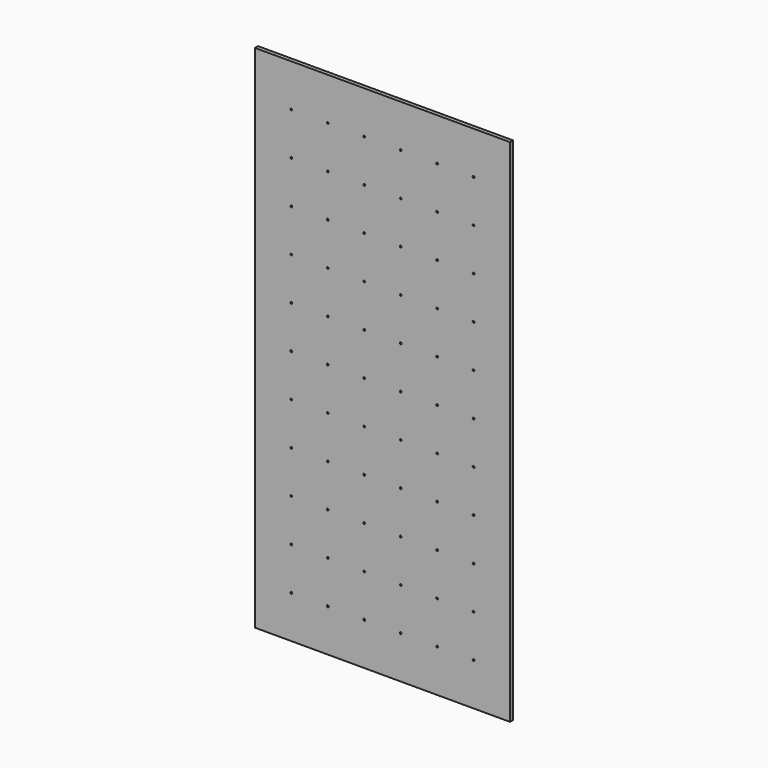
from build123d import *

# Parameters (mm, degrees)
F0_W     = 1200
F0_H     = 2400
F0_R     = 4.25
F0_R_2   = 4.333588
F0_R_3   = 4.203204
F0_R_4   = 4.674275
F0_R_5   = 4.428426
F0_R_6   = 4.332666
F0_R_7   = 4.28646
F0_R_8   = 4.261031
F0_R_9   = 4.262778
F0_R_10  = 4.353351
F0_R_11  = 4.090267
F0_R_12  = 4.288964
F0_R_13  = 4.317191
F0_R_14  = 4.232924
F0_R_15  = 4.198273
F1_DEPTH = 18


with BuildPart() as f1:
    # F0 (on Front) → F1 (new body)
    with BuildSketch(Plane.XZ):
        with Locations((0, 370.021296)):
            Rectangle(F0_W, F0_H)
        with Locations((-428.6, -629.978704)):
            Circle(F0_R, mode=Mode.SUBTRACT)
        with Locations((-428.6, -429.978704)):
            Circle(F0_R_2, mode=Mode.SUBTRACT)
        with Locations((-428.6, -229.978704)):
            Circle(F0_R_3, mode=Mode.SUBTRACT)
        with Locations((-257.2, -629.978704)):
            Circle(F0_R_4, mode=Mode.SUBTRACT)
        with Locations((-85.8, -629.978704)):
            Circle(F0_R_5, mode=Mode.SUBTRACT)
        with Locations((-257.2, -429.978704)):
            Circle(F0_R_6, mode=Mode.SUBTRACT)
        with Locations((-257.2, -229.978704)):
            Circle(F0_R_7, mode=Mode.SUBTRACT)
        with Locations((-85.8, -429.978704)):
            Circle(F0_R_8, mode=Mode.SUBTRACT)
        with Locations((-85.8, -229.978704)):
            Circle(F0_R_9, mode=Mode.SUBTRACT)
        with Locations((-428.6, -29.978704)):
            Circle(F0_R, mode=Mode.SUBTRACT)
        with Locations((-428.6, 170.021296)):
            Circle(F0_R, mode=Mode.SUBTRACT)
        with Locations((-257.2, -29.978704)):
            Circle(F0_R, mode=Mode.SUBTRACT)
        with Locations((-85.8, -29.978704)):
            Circle(F0_R, mode=Mode.SUBTRACT)
        with Locations((-257.2, 170.021296)):
            Circle(F0_R, mode=Mode.SUBTRACT)
        with Locations((-85.8, 170.021296)):
            Circle(F0_R, mode=Mode.SUBTRACT)
        with Locations((85.6, -629.978704)):
            Circle(F0_R_10, mode=Mode.SUBTRACT)
        with Locations((257, -629.978704)):
            Circle(F0_R_11, mode=Mode.SUBTRACT)
        with Locations((85.6, -429.978704)):
            Circle(F0_R_12, mode=Mode.SUBTRACT)
        with Locations((85.6, -229.978704)):
            Circle(F0_R, mode=Mode.SUBTRACT)
        with Locations((257, -429.978704)):
            Circle(F0_R_13, mode=Mode.SUBTRACT)
        with Locations((257, -229.978704)):
            Circle(F0_R, mode=Mode.SUBTRACT)
        with Locations((428.4, -629.978704)):
            Circle(F0_R_14, mode=Mode.SUBTRACT)
        with Locations((428.4, -429.978704)):
            Circle(F0_R_15, mode=Mode.SUBTRACT)
        with Locations((428.4, -229.978704)):
            Circle(F0_R, mode=Mode.SUBTRACT)
        with Locations((85.6, -29.978704)):
            Circle(F0_R, mode=Mode.SUBTRACT)
        with Locations((257, -29.978704)):
            Circle(F0_R, mode=Mode.SUBTRACT)
        with Locations((85.6, 170.021296)):
            Circle(F0_R, mode=Mode.SUBTRACT)
        with Locations((257, 170.021296)):
            Circle(F0_R, mode=Mode.SUBTRACT)
        with Locations((257, 370.021296)):
            Circle(F0_R, mode=Mode.SUBTRACT)
        with Locations((428.4, -29.978704)):
            Circle(F0_R, mode=Mode.SUBTRACT)
        with Locations((428.4, 170.021296)):
            Circle(F0_R, mode=Mode.SUBTRACT)
        with Locations((-428.6, 370.021296)):
            Circle(F0_R, mode=Mode.SUBTRACT)
        with Locations((-428.6, 570.021296)):
            Circle(F0_R, mode=Mode.SUBTRACT)
        with Locations((-428.6, 770.021296)):
            Circle(F0_R, mode=Mode.SUBTRACT)
        with Locations((-257.2, 370.021296)):
            Circle(F0_R, mode=Mode.SUBTRACT)
        with Locations((-257.2, 570.021296)):
            Circle(F0_R, mode=Mode.SUBTRACT)
        with Locations((-85.8, 370.021296)):
            Circle(F0_R, mode=Mode.SUBTRACT)
        with Locations((-85.8, 570.021296)):
            Circle(F0_R, mode=Mode.SUBTRACT)
        with Locations((-257.2, 770.021296)):
            Circle(F0_R, mode=Mode.SUBTRACT)
        with Locations((-85.8, 770.021296)):
            Circle(F0_R, mode=Mode.SUBTRACT)
        with Locations((-428.6, 970.021296)):
            Circle(F0_R, mode=Mode.SUBTRACT)
        with Locations((-428.6, 1170.021296)):
            Circle(F0_R, mode=Mode.SUBTRACT)
        with Locations((-428.6, 1370.021296)):
            Circle(F0_R, mode=Mode.SUBTRACT)
        with Locations((-257.2, 970.021296)):
            Circle(F0_R, mode=Mode.SUBTRACT)
        with Locations((-257.2, 1170.021296)):
            Circle(F0_R, mode=Mode.SUBTRACT)
        with Locations((-85.8, 970.021296)):
            Circle(F0_R, mode=Mode.SUBTRACT)
        with Locations((-85.8, 1170.021296)):
            Circle(F0_R, mode=Mode.SUBTRACT)
        with Locations((-257.2, 1370.021296)):
            Circle(F0_R, mode=Mode.SUBTRACT)
        with Locations((-85.8, 1370.021296)):
            Circle(F0_R, mode=Mode.SUBTRACT)
        with Locations((85.6, 370.021296)):
            Circle(F0_R, mode=Mode.SUBTRACT)
        with Locations((85.6, 570.021296)):
            Circle(F0_R, mode=Mode.SUBTRACT)
        with Locations((257, 570.021296)):
            Circle(F0_R, mode=Mode.SUBTRACT)
        with Locations((85.6, 770.021296)):
            Circle(F0_R, mode=Mode.SUBTRACT)
        with Locations((257, 770.021296)):
            Circle(F0_R, mode=Mode.SUBTRACT)
        with Locations((428.4, 370.021296)):
            Circle(F0_R, mode=Mode.SUBTRACT)
        with Locations((428.4, 570.021296)):
            Circle(F0_R, mode=Mode.SUBTRACT)
        with Locations((428.4, 770.021296)):
            Circle(F0_R, mode=Mode.SUBTRACT)
        with Locations((85.6, 970.021296)):
            Circle(F0_R, mode=Mode.SUBTRACT)
        with Locations((85.6, 1170.021296)):
            Circle(F0_R, mode=Mode.SUBTRACT)
        with Locations((257, 970.021296)):
            Circle(F0_R, mode=Mode.SUBTRACT)
        with Locations((257, 1170.021296)):
            Circle(F0_R, mode=Mode.SUBTRACT)
        with Locations((85.6, 1370.021296)):
            Circle(F0_R, mode=Mode.SUBTRACT)
        with Locations((257, 1370.021296)):
            Circle(F0_R, mode=Mode.SUBTRACT)
        with Locations((428.4, 970.021296)):
            Circle(F0_R, mode=Mode.SUBTRACT)
        with Locations((428.4, 1170.021296)):
            Circle(F0_R, mode=Mode.SUBTRACT)
        with Locations((428.4, 1370.021296)):
            Circle(F0_R, mode=Mode.SUBTRACT)
    extrude(amount=F1_DEPTH)


solid = f1.part
